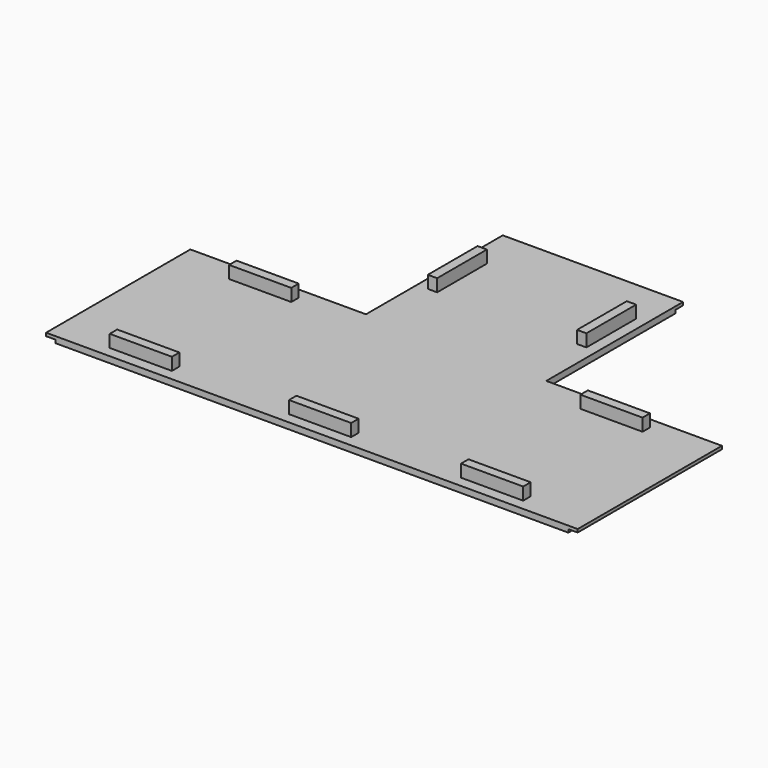
from build123d import *

# Parameters (mm, degrees)
BOX010_W     = 3
BOX010_H     = 58
BOX010_DEPTH = 1
BOX009_W     = 3
BOX009_H     = 58
BOX009_DEPTH = 1
BOX008_W     = 20
BOX008_H     = 3
BOX008_DEPTH = 6
BOX007_W     = 20
BOX007_H     = 3
BOX007_DEPTH = 6
BOX006_W     = 20
BOX006_H     = 3
BOX006_DEPTH = 6
BOX005_W     = 20
BOX005_H     = 3
BOX005_DEPTH = 6
BOX004_W     = 20
BOX004_H     = 3
BOX004_DEPTH = 6
BOX003_W     = 20
BOX003_H     = 3
BOX003_DEPTH = 6
BOX002_W     = 20
BOX002_H     = 3
BOX002_DEPTH = 6
BOX001_W     = 110
BOX001_H     = 58
BOX001_DEPTH = 2
BOX_W        = 165
BOX_H        = 58
BOX_DEPTH    = 2
BOX011_W     = 3
BOX011_H     = 58
BOX011_DEPTH = 1


with BuildPart() as cube010:
    # Box010 → Box010 (new body)
    with BuildSketch(Plane(origin=(169, 0, 1), x_dir=(1, 0, 0), z_dir=(0, 0, 1))):
        with Locations((1.5, 29)):
            Rectangle(BOX010_W, BOX010_H)
    extrude(amount=BOX010_DEPTH)


with BuildPart() as cube009:
    # Box009 → Box009 (new body)
    with BuildSketch(Plane(origin=(1, 0, 1), x_dir=(1, 0, 0), z_dir=(0, 0, 1))):
        with Locations((1.5, 29)):
            Rectangle(BOX009_W, BOX009_H)
    extrude(amount=BOX009_DEPTH)


with BuildPart() as cube008:
    # Box008 → Box008 (new body)
    with BuildSketch(Plane(origin=(112, 78.5, 0), x_dir=(0, 1, 0), z_dir=(0, 0, 1))):
        with Locations((10, 1.5)):
            Rectangle(BOX008_W, BOX008_H)
    extrude(amount=BOX008_DEPTH)


with BuildPart() as cube007:
    # Box007 → Box007 (new body)
    with BuildSketch(Plane(origin=(64, 78.5, 0), x_dir=(0, 1, 0), z_dir=(0, 0, 1))):
        with Locations((10, 1.5)):
            Rectangle(BOX007_W, BOX007_H)
    extrude(amount=BOX007_DEPTH)


with BuildPart() as cube006:
    # Box006 → Box006 (new body)
    with BuildSketch(Plane(origin=(131.67, 51.5, 0), x_dir=(1, 0, 0), z_dir=(0, 0, 1))):
        with Locations((10, 1.5)):
            Rectangle(BOX006_W, BOX006_H)
    extrude(amount=BOX006_DEPTH)


with BuildPart() as cube005:
    # Box005 → Box005 (new body)
    with BuildSketch(Plane(origin=(18.67, 51.5, 0), x_dir=(1, 0, 0), z_dir=(0, 0, 1))):
        with Locations((10, 1.5)):
            Rectangle(BOX005_W, BOX005_H)
    extrude(amount=BOX005_DEPTH)


with BuildPart() as cube004:
    # Box004 → Box004 (new body)
    with BuildSketch(Plane(origin=(131.67, 3.5, 0), x_dir=(1, 0, 0), z_dir=(0, 0, 1))):
        with Locations((10, 1.5)):
            Rectangle(BOX004_W, BOX004_H)
    extrude(amount=BOX004_DEPTH)


with BuildPart() as cube003:
    # Box003 → Box003 (new body)
    with BuildSketch(Plane(origin=(76.34, 3.5, 0), x_dir=(1, 0, 0), z_dir=(0, 0, 1))):
        with Locations((10, 1.5)):
            Rectangle(BOX003_W, BOX003_H)
    extrude(amount=BOX003_DEPTH)


with BuildPart() as cube002:
    # Box002 → Box002 (new body)
    with BuildSketch(Plane(origin=(18.67, 3.5, 0), x_dir=(1, 0, 0), z_dir=(0, 0, 1))):
        with Locations((10, 1.5)):
            Rectangle(BOX002_W, BOX002_H)
    extrude(amount=BOX002_DEPTH)


with BuildPart() as cube001:
    # Box001 → Box001 (new body)
    with BuildSketch(Plane(origin=(115.5, 0, 0), x_dir=(0, 1, 0), z_dir=(0, 0, 1))):
        with Locations((55, 29)):
            Rectangle(BOX001_W, BOX001_H)
    extrude(amount=BOX001_DEPTH)


with BuildPart() as cube:
    # Box → Box (new body)
    with BuildSketch(Plane(origin=(4, 0, 0), x_dir=(1, 0, 0), z_dir=(0, 0, 1))):
        with Locations((82.5, 29)):
            Rectangle(BOX_W, BOX_H)
    extrude(amount=BOX_DEPTH)


with BuildPart() as fusion:
    # Box011 → Box011 (new body)
    with BuildSketch(Plane(origin=(115.5, 110, 1), x_dir=(0, 1, 0), z_dir=(0, 0, 1))):
        with Locations((1.5, 29)):
            Rectangle(BOX011_W, BOX011_H)
    extrude(amount=BOX011_DEPTH)

    # Fusion: union Cube010, Cube009, Cube008, Cube007, Cube006, Cube005, Cube004, Cube003, Cube002, Cube001, Cube
    add(cube010.part)
    add(cube009.part)
    add(cube008.part)
    add(cube007.part)
    add(cube006.part)
    add(cube005.part)
    add(cube004.part)
    add(cube003.part)
    add(cube002.part)
    add(cube001.part)
    add(cube.part)


solid = fusion.part
